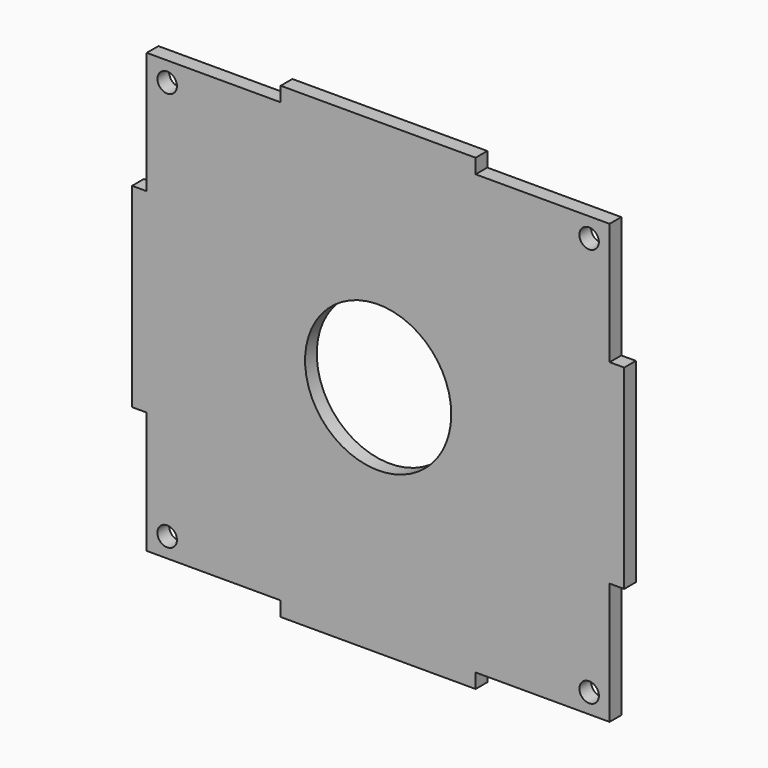
from build123d import *

# Parameters (mm, degrees)
F0_R     = 2
F0_R_2   = 15
F1_DEPTH = 3


with BuildPart() as f1:
    # F0 (on Front) → F1 (new body)
    with BuildSketch(Plane.XZ):
        Polygon((-50.5, 20), (-50.5, 0), (-50.5, -20), (-47.5, -20), (-47.5, -45), (-20, -45), (-20, -48), (0, -48), (20, -48), (20, -45), (47.5, -45), (47.5, -20), (50.5, -20), (50.5, 0), (50.5, 20), (47.5, 20), (47.5, 45), (20, 45), (20, 48), (0, 48), (-20, 48), (-20, 45), (-47.5, 45), (-47.5, 20), align=None)
        with Locations((-43.3, -41)):
            Circle(F0_R, mode=Mode.SUBTRACT)
        with Locations((43.3, -41)):
            Circle(F0_R, mode=Mode.SUBTRACT)
        with Locations((-43.3, 41)):
            Circle(F0_R, mode=Mode.SUBTRACT)
        Circle(F0_R_2, mode=Mode.SUBTRACT)
        with Locations((43.3, 41)):
            Circle(F0_R, mode=Mode.SUBTRACT)
    extrude(amount=F1_DEPTH)


solid = f1.part
